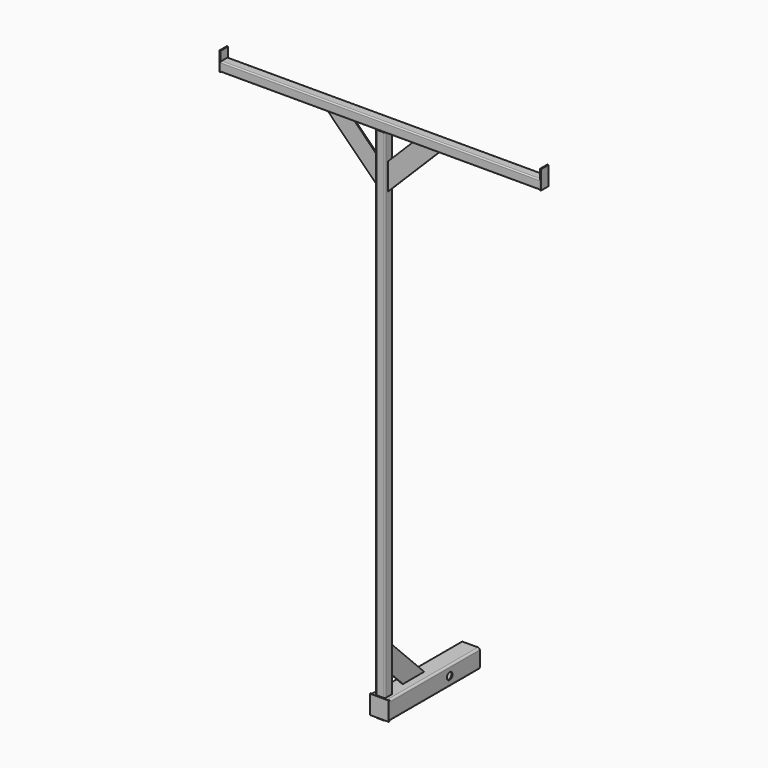
from build123d import *

# Parameters (mm, degrees)
F1_DEPTH  = 152.4
F2_W      = 25.4
F2_H      = 25.4
F3_DEPTH  = 25.4
F6_DEPTH  = 1371.6
F7_DEPTH  = 28.575
F4_R      = 9.525
F8_DEPTH  = 25.4
F9_W      = 50.8
F9_H      = 50.8
F10_DEPTH = 3.175
F12_DEPTH = 1.5875
F14_DEPTH = 431.8
F17_DEPTH = 1.5875
F19_W     = 25.4
F19_H     = 50.8
F20_DEPTH = 3.175


with BuildPart() as f1:
    # F0 (on Front) → F1 (new body, symmetric)
    with BuildSketch(Plane.XZ):
        with BuildLine():
            ThreePointArc((25.4, 20.32), (23.9121024484, 23.9121024484), (20.32, 25.4))
            Line((20.32, 25.4), (-20.32, 25.4))
            ThreePointArc((-20.32, 25.4), (-23.9121024484, 23.9121024484), (-25.4, 20.32))
            Line((-25.4, 20.32), (-25.4, -20.32))
            ThreePointArc((-25.4, -20.32), (-23.9121024484, -23.9121024484), (-20.32, -25.4))
            Line((-20.32, -25.4), (20.32, -25.4))
            ThreePointArc((20.32, -25.4), (23.9121024484, -23.9121024484), (25.4, -20.32))
            Line((25.4, -20.32), (25.4, 20.32))
        make_face()
        with BuildLine():
            ThreePointArc((22.352, -20.32), (21.7568409794, -21.7568409794), (20.32, -22.352))
            Line((20.32, -22.352), (-20.32, -22.352))
            ThreePointArc((-20.32, -22.352), (-21.7568409794, -21.7568409794), (-22.352, -20.32))
            Line((-22.352, -20.32), (-22.352, 20.32))
            ThreePointArc((-22.352, 20.32), (-21.7568409794, 21.7568409794), (-20.32, 22.352))
            Line((-20.32, 22.352), (20.32, 22.352))
            ThreePointArc((20.32, 22.352), (21.7568409794, 21.7568409794), (22.352, 20.32))
            Line((22.352, 20.32), (22.352, -20.32))
        make_face(mode=Mode.SUBTRACT)
    extrude(amount=F1_DEPTH, both=True)

    # F2 (on Top) → F3 (cut, symmetric)
    with BuildSketch(Plane.XY):
        with Locations((0, -139.7)):
            Rectangle(F2_W, F2_H)
    extrude(amount=F3_DEPTH, both=True, mode=Mode.SUBTRACT)

    # F4 (on Right) → F8 (cut, symmetric)
    with BuildSketch(Plane.YZ):
        with Locations((50.8, 0)):
            Circle(F4_R)
    extrude(amount=F8_DEPTH, both=True, mode=Mode.SUBTRACT)


with BuildPart() as f6:
    # F5 (on Top) → F6 (new body)
    with BuildSketch(Plane.XY):
        with BuildLine():
            ThreePointArc((12.7, -130.175), (11.7700640303, -127.9299359697), (9.525, -127))
            Line((9.525, -127), (-9.525, -127))
            ThreePointArc((-9.525, -127), (-11.7700640303, -127.9299359697), (-12.7, -130.175))
            Line((-12.7, -130.175), (-12.7, -149.225))
            ThreePointArc((-12.7, -149.225), (-11.7700640303, -151.4700640303), (-9.525, -152.4))
            Line((-9.525, -152.4), (9.525, -152.4))
            ThreePointArc((9.525, -152.4), (11.7700640303, -151.4700640303), (12.7, -149.225))
            Line((12.7, -149.225), (12.7, -130.175))
        make_face()
        with BuildLine():
            ThreePointArc((9.652, -149.225), (9.6148025612, -149.3148025612), (9.525, -149.352))
            Line((9.525, -149.352), (-9.525, -149.352))
            ThreePointArc((-9.525, -149.352), (-9.6148025612, -149.3148025612), (-9.652, -149.225))
            Line((-9.652, -149.225), (-9.652, -130.175))
            ThreePointArc((-9.652, -130.175), (-9.6148025612, -130.0851974388), (-9.525, -130.048))
            Line((-9.525, -130.048), (9.525, -130.048))
            ThreePointArc((9.525, -130.048), (9.6148025612, -130.0851974388), (9.652, -130.175))
            Line((9.652, -130.175), (9.652, -149.225))
        make_face(mode=Mode.SUBTRACT)
    extrude(amount=F6_DEPTH)

    # F5 (on Top) → F7 (join)
    with BuildSketch(Plane.XY):
        with BuildLine():
            ThreePointArc((12.7, -130.175), (11.7700640303, -127.9299359697), (9.525, -127))
            Line((9.525, -127), (-9.525, -127))
            ThreePointArc((-9.525, -127), (-11.7700640303, -127.9299359697), (-12.7, -130.175))
            Line((-12.7, -130.175), (-12.7, -149.225))
            ThreePointArc((-12.7, -149.225), (-11.7700640303, -151.4700640303), (-9.525, -152.4))
            Line((-9.525, -152.4), (9.525, -152.4))
            ThreePointArc((9.525, -152.4), (11.7700640303, -151.4700640303), (12.7, -149.225))
            Line((12.7, -149.225), (12.7, -130.175))
        make_face()
        with BuildLine():
            ThreePointArc((9.652, -149.225), (9.6148025612, -149.3148025612), (9.525, -149.352))
            Line((9.525, -149.352), (-9.525, -149.352))
            ThreePointArc((-9.525, -149.352), (-9.6148025612, -149.3148025612), (-9.652, -149.225))
            Line((-9.652, -149.225), (-9.652, -130.175))
            ThreePointArc((-9.652, -130.175), (-9.6148025612, -130.0851974388), (-9.525, -130.048))
            Line((-9.525, -130.048), (9.525, -130.048))
            ThreePointArc((9.525, -130.048), (9.6148025612, -130.0851974388), (9.652, -130.175))
            Line((9.652, -130.175), (9.652, -149.225))
        make_face(mode=Mode.SUBTRACT)
    extrude(amount=-F7_DEPTH)


with BuildPart() as f10:
    # F9 (on face) → F10 (new body)
    with BuildSketch(Plane.XZ.offset(152.4)):
        Rectangle(F9_W, F9_H)
    extrude(amount=F10_DEPTH)


with BuildPart() as f12:
    # F11 (on Right) → F12 (new body, symmetric)
    with BuildSketch(Plane.YZ):
        Polygon((-77.6085913341, 25.4), (-5.7665423656, 25.4), (-127, 146.6334576344), (-127, 74.7914086659), align=None)
    extrude(amount=F12_DEPTH, both=True)


with BuildPart() as f14:
    # F13 (on Right) → F14 (new body, symmetric)
    with BuildSketch(Plane.YZ):
        with BuildLine():
            ThreePointArc((-152.4, 1374.775), (-151.4700640303, 1372.5299359697), (-149.225, 1371.6))
            Line((-149.225, 1371.6), (-130.175, 1371.6))
            ThreePointArc((-130.175, 1371.6), (-127.9299359697, 1372.5299359697), (-127, 1374.775))
            Line((-127, 1374.775), (-127, 1393.825))
            ThreePointArc((-127, 1393.825), (-127.9299359697, 1396.0700640303), (-130.175, 1397))
            Line((-130.175, 1397), (-149.225, 1397))
            ThreePointArc((-149.225, 1397), (-151.4700640303, 1396.0700640303), (-152.4, 1393.825))
            Line((-152.4, 1393.825), (-152.4, 1374.775))
        make_face()
        with BuildLine():
            ThreePointArc((-149.225, 1374.648), (-149.3148025612, 1374.6851974388), (-149.352, 1374.775))
            Line((-149.352, 1374.775), (-149.352, 1393.825))
            ThreePointArc((-149.352, 1393.825), (-149.3148025612, 1393.9148025612), (-149.225, 1393.952))
            Line((-149.225, 1393.952), (-130.175, 1393.952))
            ThreePointArc((-130.175, 1393.952), (-130.0851974388, 1393.9148025612), (-130.048, 1393.825))
            Line((-130.048, 1393.825), (-130.048, 1374.775))
            ThreePointArc((-130.048, 1374.775), (-130.0851974388, 1374.6851974388), (-130.175, 1374.648))
            Line((-130.175, 1374.648), (-149.225, 1374.648))
        make_face(mode=Mode.SUBTRACT)
    extrude(amount=F14_DEPTH, both=True)


with BuildPart() as f17:
    # F16 (on offset) → F17 (new body, symmetric)
    with BuildSketch(Plane.XZ.offset(139.7)):
        Polygon((-84.5420489686, 1371.6), (-156.3840979371, 1371.6), (-12.7, 1227.9159020629), (-12.7, 1299.7579510314), align=None)
    extrude(amount=F17_DEPTH, both=True)


with BuildPart() as f18_1:
    # F18: instance of F17
    add(f17.part.mirror(Plane.YZ))


with BuildPart() as f20:
    # F19 (on face) → F20 (new body)
    with BuildSketch(Plane(origin=(-431.8, 0, 0), x_dir=(0, -1, 0), z_dir=(-1, 0, 0))):
        with Locations((139.7, 1397)):
            Rectangle(F19_W, F19_H)
    extrude(amount=F20_DEPTH)


with BuildPart() as f21_1:
    # F21: instance of F20
    add(f20.part.mirror(Plane.YZ))


solid = Compound([f1.part, f6.part, f10.part, f12.part, f14.part, f17.part, f18_1.part, f20.part, f21_1.part])
